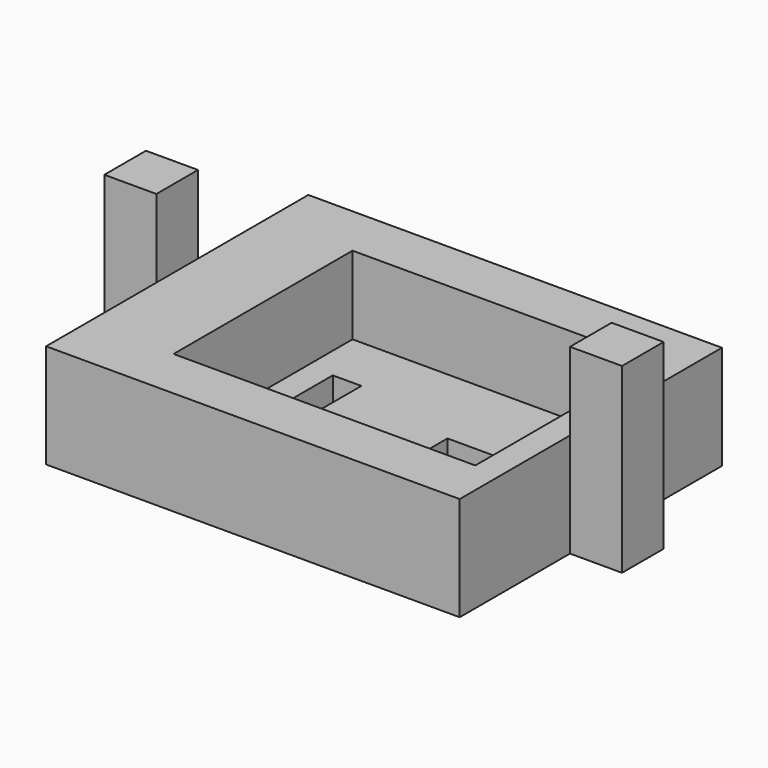
from build123d import *

# Parameters (mm, degrees)
PAD_DEPTH       = 8
SKETCH003_W     = 23.2
SKETCH003_H     = 17.2
POCKET_DEPTH    = 6
SKETCH005_W     = 2.2
SKETCH005_H     = 8.4
POCKET001_DEPTH = 7
SKETCH006_W     = 4.2
SKETCH006_H     = 4.2
POCKET002_DEPTH = 5
SKETCH007_W     = 4
SKETCH007_H     = 4
PAD001_DEPTH    = 6
SKETCH008_W     = 4
SKETCH008_H     = 4
PAD002_DEPTH    = 6


with BuildPart() as part:
    # Sketch → Pad (new body)
    with BuildSketch(Plane.XY):
        Polygon((-4, 14.6), (-4, 10.6), (0, 10.6), (0, 0), (31.8, 0), (31.8, 10.6), (35.8, 10.6), (35.8, 14.6), (31.8, 14.6), (31.8, 25.2), (0, 25.2), (0, 14.6), align=None)
    extrude(amount=PAD_DEPTH)

    # Sketch003 (on DatumPlane) → Pocket (cut)
    with BuildSketch(Plane.XY.offset(8)):
        with Locations((18.2, 12.6)):
            Rectangle(SKETCH003_W, SKETCH003_H)
    extrude(amount=-POCKET_DEPTH, mode=Mode.SUBTRACT)

    # Sketch005 (on DatumPlane) → Pocket001 (cut)
    with BuildSketch(Plane.XY.offset(2)):
        with Locations((9.7, 12.6)):
            Rectangle(SKETCH005_W, SKETCH005_H)
    extrude(amount=-POCKET001_DEPTH, mode=Mode.SUBTRACT)

    # Sketch006 (on DatumPlane) → Pocket002 (cut)
    with BuildSketch(Plane.XY.offset(2)):
        with Locations((21.2, 12.6)):
            Rectangle(SKETCH006_W, SKETCH006_H)
    extrude(amount=-POCKET002_DEPTH, mode=Mode.SUBTRACT)

    # Sketch007 (on DatumPlane) → Pad001 (join)
    with BuildSketch(Plane.XY.offset(8)):
        with Locations((-2, 12.6)):
            Rectangle(SKETCH007_W, SKETCH007_H)
    extrude(amount=PAD001_DEPTH)

    # Sketch008 (on DatumPlane) → Pad002 (join)
    with BuildSketch(Plane.XY.offset(8)):
        with Locations((33.8, 12.6)):
            Rectangle(SKETCH008_W, SKETCH008_H)
    extrude(amount=PAD002_DEPTH)


solid = part.part
